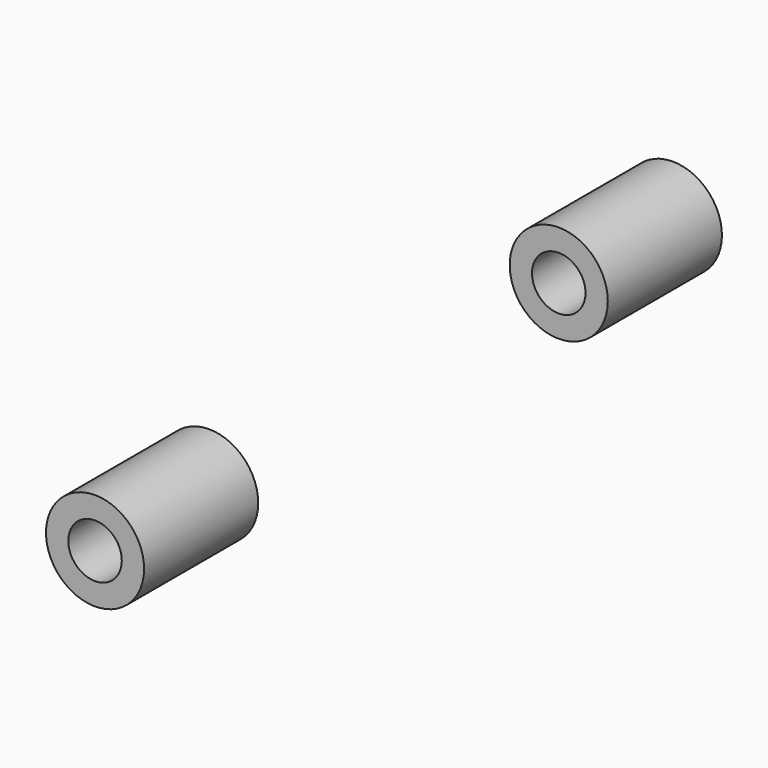
from build123d import *

# Parameters (mm, degrees)
LM12UU_0_INT_R          = 6
LM12UU_0_INT_DEPTH      = 34
LM12UU_0_INT_ROLL_ANGLE = -90
LM12UU_0_EXT_R          = 11
LM12UU_0_EXT_DEPTH      = 32
LM12UU_0_EXT_ROLL_ANGLE = -90


with BuildPart() as lm12uu_0_int:
    # lm12uu_0_int → lm12uu_0_int (new body)
    with BuildSketch(Plane.XY):
        Circle(LM12UU_0_INT_R)
    extrude(amount=LM12UU_0_INT_DEPTH)


with BuildPart() as lm12uu_0_int_1:
    # lm12uu_0_int roll: moved
    add(lm12uu_0_int.part.rotate(Axis((0, 0, 0), (1, 0, 0)), LM12UU_0_INT_ROLL_ANGLE))


with BuildPart() as lm12uu_0_int_2:
    # lm12uu_0_int placement: moved
    add(lm12uu_0_int_1.part.moved(Location((0, -82, 0))))


with BuildPart() as lm12uu_0_body:
    # lm12uu_0_ext → lm12uu_0_ext (new body)
    with BuildSketch(Plane.XY):
        Circle(LM12UU_0_EXT_R)
    extrude(amount=LM12UU_0_EXT_DEPTH)


with BuildPart() as lm12uu_0_body_1:
    # lm12uu_0_ext roll: moved
    add(lm12uu_0_body.part.rotate(Axis((0, 0, 0), (1, 0, 0)), LM12UU_0_EXT_ROLL_ANGLE))


with BuildPart() as lm12uu_0_body_2:
    # lm12uu_0_ext placement: moved
    add(lm12uu_0_body_1.part.moved(Location((0, -81, 0))))

    # lm12uu_0: cut lm12uu_0_int
    add(lm12uu_0_int_2.part, mode=Mode.SUBTRACT)


with BuildPart() as clone003:
    # Clone003 base: copy of lm12uu_0 body
    add(lm12uu_0_body_2.part)


with BuildPart() as clone003_1:
    # Clone003 placement: moved
    add(clone003.part.moved(Location((0, 130, 0))))


with BuildPart() as slider_left_bear:
    # slider_left_bear base: copy of lm12uu_0 body
    add(lm12uu_0_body_2.part)

    # slider_left_bear: union Clone003
    add(clone003_1.part)


with BuildPart() as slider_left_bear_1:
    # slider_left_bear placement: moved
    add(slider_left_bear.part.moved(Location((-96.9, 560, 53))))


solid = slider_left_bear_1.part
